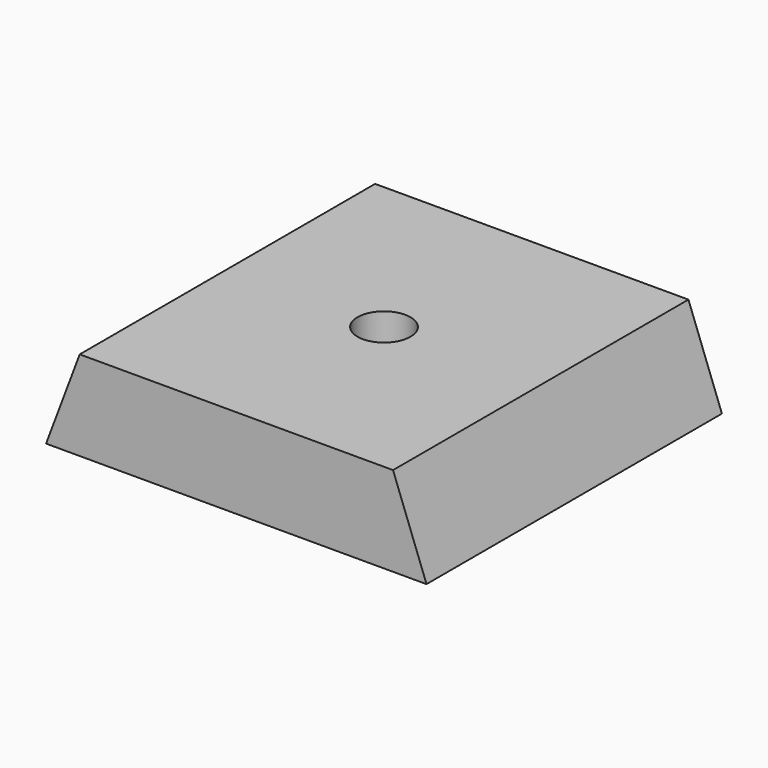
from build123d import *

# Parameters (mm, degrees)
F0_W     = 34
F0_H     = 33
F0_R     = 2.366828
F1_DEPTH = 8
F3_DEPTH = 35


with BuildPart() as f1:
    # F0 (on Top) → F1 (new body)
    with BuildSketch(Plane.XY):
        Rectangle(F0_W, F0_H)
        Circle(F0_R, mode=Mode.SUBTRACT)
    extrude(amount=F1_DEPTH)

    # F2 (on face) → F3 (cut)
    with BuildSketch(Plane.XZ.offset(16.5)):
        Polygon((-17, 0), (-13.995684, 8), (-17, 8), align=None)
        Polygon((17, 8), (14.007485, 8), (17, 0), align=None)
    extrude(amount=-F3_DEPTH, mode=Mode.SUBTRACT)


solid = f1.part
